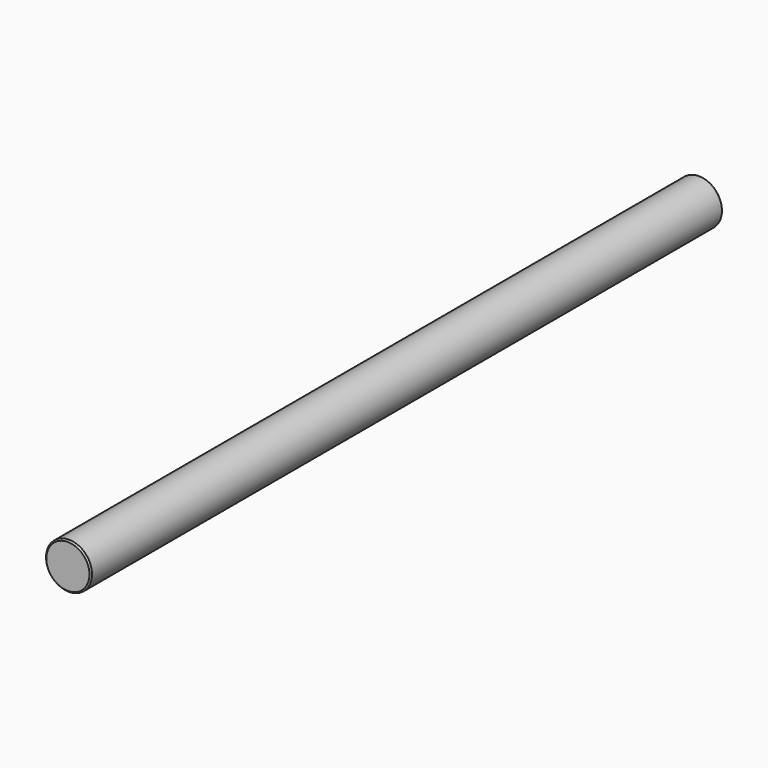
from build123d import *

# Parameters (mm, degrees)
F0_R     = 8
F1_DEPTH = 137.5
F2_SIZE  = 0.5


with BuildPart() as f1:
    # F0 (on Front) → F1 (new body, symmetric)
    with BuildSketch(Plane.XZ):
        Circle(F0_R)
    extrude(amount=F1_DEPTH, both=True)

    # F2
    f2_edges = [f1.edges().sort_by_distance(p)[0] for p in [
        (-8, 137.5, 0),
        (8, 0, 0),
        (-8, -137.5, 0),
    ]]
    chamfer(f2_edges, length=F2_SIZE)


solid = f1.part
